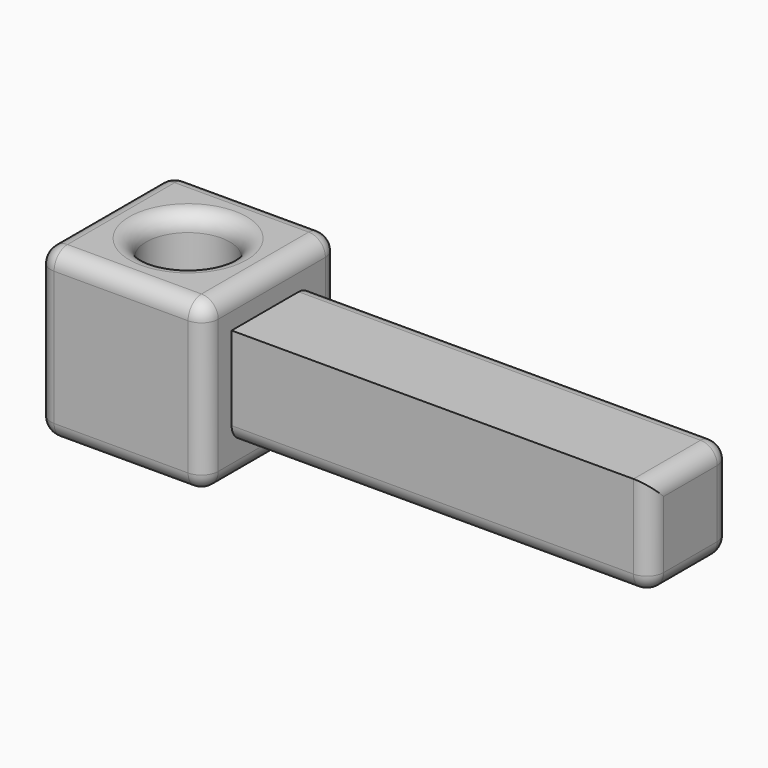
from build123d import *

# Parameters (mm, degrees)
F0_W     = 50.8
F0_H     = 50.8
F1_DEPTH = 50.8
F2_R     = 12.7
F3_DEPTH = 25.4
F4_R     = 5.08
F5_R     = 5.08
F6_W     = 30.48
F6_H     = 30.48
F7_DEPTH = 127
F8_R     = 5.08


with BuildPart() as f1:
    # F0 (on Top) → F1 (new body)
    with BuildSketch(Plane.XY):
        with Locations((25.4, 25.4)):
            Rectangle(F0_W, F0_H)
    extrude(amount=F1_DEPTH)

    # F2 (on face) → F3 (cut)
    with BuildSketch(Plane.XY.offset(50.8)):
        with Locations((25.4, 25.4)):
            Circle(F2_R)
    extrude(amount=-F3_DEPTH, mode=Mode.SUBTRACT)

    # F4
    f4_edges = [f1.edges().sort_by_distance(p)[0] for p in [
        (25.4, 50.8, 50.8),
        (50.8, 25.4, 50.8),
        (25.4, 0, 50.8),
        (0, 25.4, 50.8),
        (50.8, 0, 25.4),
        (50.8, 50.8, 25.4),
        (50.8, 25.4, 0),
        (0, 0, 25.4),
        (25.4, 0, 0),
        (0, 50.8, 25.4),
        (0, 25.4, 0),
        (25.4, 50.8, 0),
    ]]
    fillet(f4_edges, radius=F4_R)

    # F5
    f5_edges = [f1.edges().sort_by_distance(p)[0] for p in [
        (12.7, 25.4, 25.4),
        (12.7, 25.4, 50.8),
    ]]
    fillet(f5_edges, radius=F5_R)

    # F6 (on face) → F7 (join)
    with BuildSketch(Plane.YZ.offset(50.8)):
        with Locations((25.4, 25.4)):
            Rectangle(F6_W, F6_H)
    extrude(amount=F7_DEPTH)

    # F8
    f8_edges = [f1.edges().sort_by_distance(p)[0] for p in [
        (114.3, 10.16, 10.16),
        (114.3, 40.64, 40.64),
        (114.3, 40.64, 10.16),
        (177.8, 25.4, 10.16),
        (177.8, 40.64, 25.4),
        (177.8, 25.4, 40.64),
        (177.8, 10.16, 25.4),
    ]]
    fillet(f8_edges, radius=F8_R)


solid = f1.part
